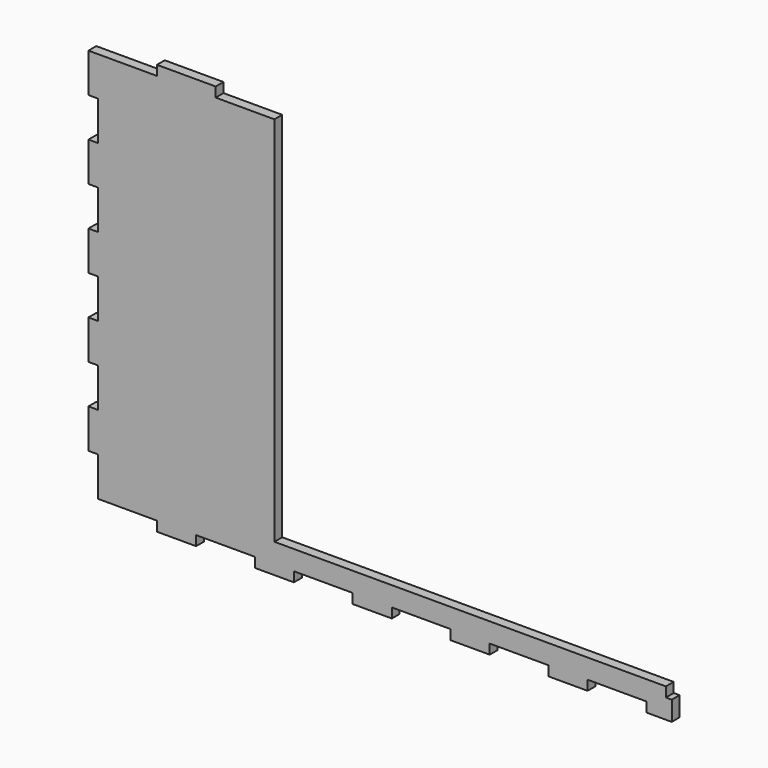
from build123d import *

# Parameters (mm, degrees)
F1_DEPTH = 5


with BuildPart() as f1:
    # F0 (on Front) → F1 (new body)
    with BuildSketch(Plane.XZ):
        Polygon((0, -26.211582), (0, 163.788418), (-30, 163.788418), (-30, 168.788418), (-60, 168.788418), (-60, 163.788418), (-90, 163.788418), (-95, 163.788418), (-95, 143.788418), (-90, 143.788418), (-90, 123.788418), (-95, 123.788418), (-95, 103.788418), (-90, 103.788418), (-90, 83.788418), (-95, 83.788418), (-95, 63.788418), (-90, 63.788418), (-90, 43.788418), (-95, 43.788418), (-95, 23.788418), (-90, 23.788418), (-90, 3.788418), (-95, 3.788418), (-95, -16.211582), (-90, -16.211582), (-90, -36.211582), (-60, -36.211582), (-60, -41.211582), (-40, -41.211582), (-40, -36.211582), (-10, -36.211582), (-10, -41.211582), (10, -41.211582), (10, -36.211582), (40, -36.211582), (40, -41.211582), (60, -41.211582), (60, -36.211582), (90, -36.211582), (90, -41.211582), (110, -41.211582), (110, -36.211582), (140, -36.211582), (140, -41.211582), (160, -41.211582), (160, -36.211582), (190, -36.211582), (190, -41.211582), (194.223076, -41.211582), (199.870959, -41.211582), (200, -41.211582), (203, -41.211582), (203, -31.211582), (200, -31.211582), (200, -26.211582), align=None)
    extrude(amount=F1_DEPTH)


solid = f1.part
